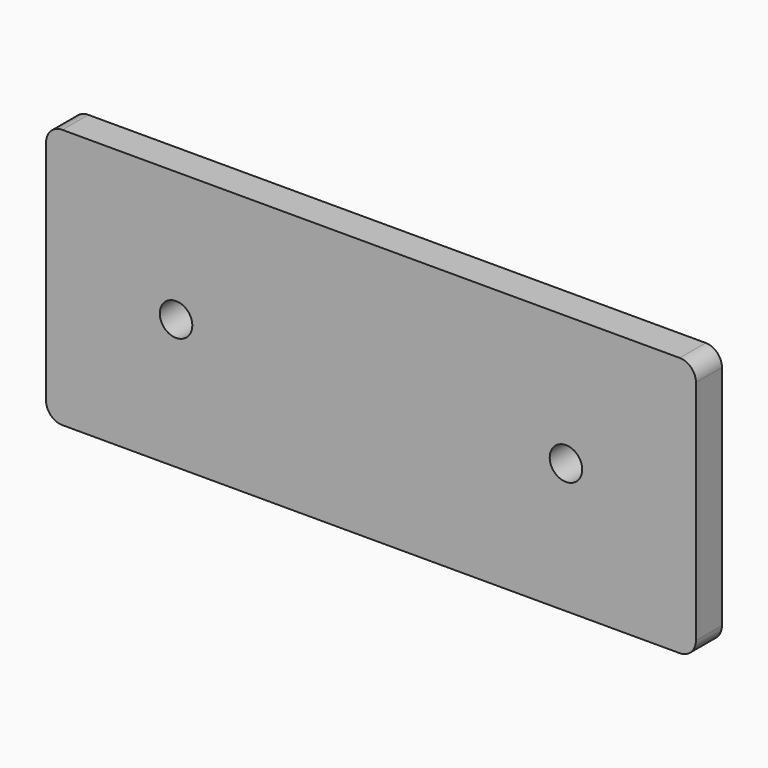
from build123d import *

# Parameters (mm, degrees)
F0_W     = 254
F0_H     = 101.6
F1_DEPTH = 12.7
F3_D     = 12.7
F4_R     = 6.35


with BuildPart() as f1:
    # F0 (on Front) → F1 (new body)
    with BuildSketch(Plane.XZ):
        with Locations((127, 50.8)):
            Rectangle(F0_W, F0_H)
    extrude(amount=F1_DEPTH)

    # F3 (through all)
    with Locations(Plane.XZ.offset(12.7)):
        with Locations((50.8, 50.8), (203.2, 50.8)):
            Hole(F3_D / 2)

    # F4
    f4_edges = [f1.edges().sort_by_distance(p)[0] for p in [
        (0, -6.35, 101.6),
        (0, -6.35, 0),
        (254, -6.35, 0),
        (254, -6.35, 101.6),
    ]]
    fillet(f4_edges, radius=F4_R)


solid = f1.part
